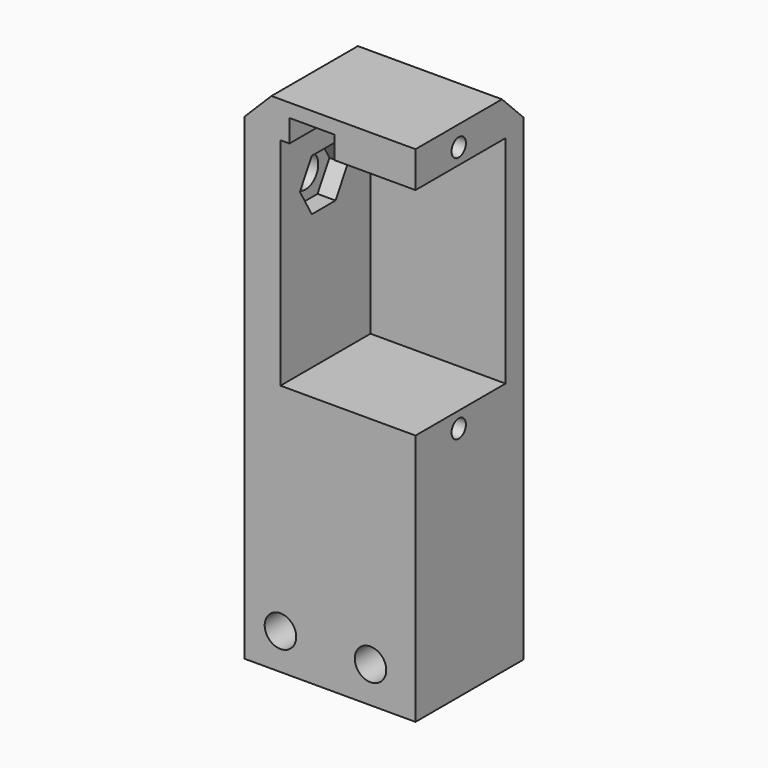
from build123d import *

# Parameters (mm, degrees)
BOX069_W               = 5
BOX069_H               = 12
BOX069_DEPTH           = 7.5
CYLINDER075_R          = 1.75
CYLINDER075_DEPTH      = 32
PRISM001_DEPTH         = 10
SKETCH015_R            = 1
SKETCH015_W            = 24
SKETCH015_H            = 13
PAD010_DEPTH           = 30
CYLINDER073_R          = 1.75
CYLINDER073_DEPTH      = 32
CYLINDER073_ROLL_ANGLE = -90
CYLINDER074_R          = 1.75
CYLINDER074_DEPTH      = 32
CYLINDER074_ROLL_ANGLE = -90
BOX054_W               = 19
BOX054_H               = 15
BOX054_DEPTH           = 56
CHAMFER108_SIZE        = 3
FILLET018013051_R      = 0.5


with BuildPart() as cubo015:
    # Box069 → Box069 (new body)
    with BuildSketch(Plane(origin=(9, 97, 127), x_dir=(1, 0, 0), z_dir=(0, 0, 1))):
        with Locations((2.5, 6)):
            Rectangle(BOX069_W, BOX069_H)
    extrude(amount=BOX069_DEPTH)


with BuildPart() as cilindro016:
    # Cylinder075 → Cylinder075 (new body)
    with BuildSketch(Plane(origin=(-5, 104, 125.85), x_dir=(0, -1, 0), z_dir=(1, 0, 0))):
        Circle(CYLINDER075_R)
    extrude(amount=CYLINDER075_DEPTH)


with BuildPart() as fusion057:
    # Prism001 → Prism001 (new body)
    with BuildSketch(Plane(origin=(6, 104, 125.85), x_dir=(0, -1, 0), z_dir=(1, 0, 0))):
        Polygon((3.3, 0), (1.65, 2.857884), (-1.65, 2.857884), (-3.3, 0), (-1.65, -2.857884), (1.65, -2.857884), align=None)
    extrude(amount=PRISM001_DEPTH)

    # Fusion057: union Cilindro016
    add(cilindro016.part)


with BuildPart() as pad010:
    # Sketch015 → Pad010 (new body)
    with BuildSketch(Plane(origin=(38, -16, 143.25), x_dir=(0, 0, -1), z_dir=(1, 0, 0))):
        with Locations((37, 120)):
            Circle(SKETCH015_R)
        with Locations((9.5, 120)):
            Circle(SKETCH015_R)
        with Locations((23.25, 120)):
            Rectangle(SKETCH015_W, SKETCH015_H)
    extrude(amount=-PAD010_DEPTH)


with BuildPart() as cilindro014:
    # Cylinder073 → Cylinder073 (new body)
    with BuildSketch(Plane.XY):
        Circle(CYLINDER073_R)
    extrude(amount=CYLINDER073_DEPTH)


with BuildPart() as cilindro014_1:
    # Cylinder073 roll: moved
    add(cilindro014.part.rotate(Axis((0, 0, 0), (1, 0, 0)), CYLINDER073_ROLL_ANGLE))


with BuildPart() as cilindro014_2:
    # Cylinder073 placement: moved
    add(cilindro014_1.part.moved(Location((8, 90, 84))))


with BuildPart() as fusion056:
    # Cylinder074 → Cylinder074 (new body)
    with BuildSketch(Plane.XY):
        Circle(CYLINDER074_R)
    extrude(amount=CYLINDER074_DEPTH)


with BuildPart() as fusion056_1:
    # Cylinder074 roll: moved
    add(fusion056.part.rotate(Axis((0, 0, 0), (1, 0, 0)), CYLINDER074_ROLL_ANGLE))


with BuildPart() as fusion056_2:
    # Cylinder074 placement: moved
    add(fusion056_1.part.moved(Location((18, 90, 84))))

    # Fusion056: union Cilindro014
    add(cilindro014_2.part)


with BuildPart() as fillet018013051:
    # Box054 → Box054 (new body)
    with BuildSketch(Plane(origin=(4, 98, 80), x_dir=(1, 0, 0), z_dir=(0, 0, 1))):
        with Locations((9.5, 7.5)):
            Rectangle(BOX054_W, BOX054_H)
    extrude(amount=BOX054_DEPTH)

    # Cut098: cut Fusion056
    add(fusion056_2.part, mode=Mode.SUBTRACT)

    # Cut099: cut Pad010
    add(pad010.part, mode=Mode.SUBTRACT)

    # Chamfer108
    chamfer108_edges = [fillet018013051.edges().sort_by_distance(p)[0] for p in [
        (4, 105.5, 136),
        (13.5, 113, 136),
    ]]
    chamfer(chamfer108_edges, length=CHAMFER108_SIZE)

    # Cut100: cut Fusion057
    add(fusion057.part, mode=Mode.SUBTRACT)

    # Cut114: cut Cubo015
    add(cubo015.part, mode=Mode.SUBTRACT)

    # Fillet018013051
    fillet018013051_edges = [fillet018013051.edges().sort_by_distance(p)[0] for p in [
        (11.5, 109, 134.5),
    ]]
    fillet(fillet018013051_edges, radius=FILLET018013051_R)


solid = fillet018013051.part
